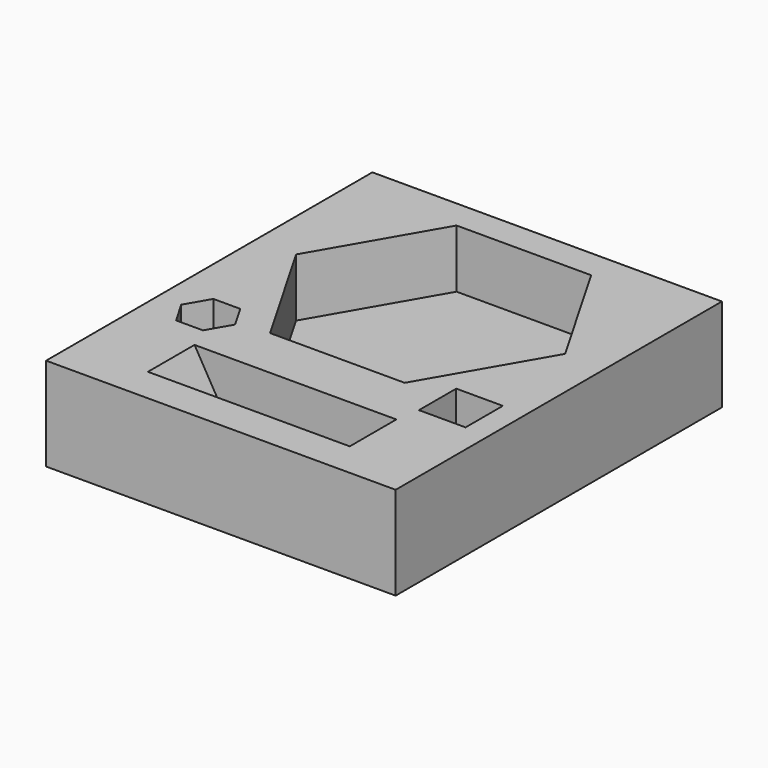
from build123d import *

# Parameters (mm, degrees)
F0_W          = 38.1
F0_H          = 44.45
F1_DEPTH      = 10.16
F3_DEPTH      = 6.35
F6_DEPTH      = 3.175
F6_DEPTH_BACK = 3.175
F8_DEPTH      = 7.62
F9_W          = 5.08
F9_H          = 5.08
F10_DEPTH     = 7.62


with BuildPart() as f1:
    # F0 (on Top) → F1 (new body)
    with BuildSketch(Plane.XY):
        Rectangle(F0_W, F0_H)
    extrude(amount=F1_DEPTH)

    # F2 (on face) → F3 (cut)
    with BuildSketch(Plane.XY.offset(10.16)):
        Polygon((14.6646968374, 6.35), (7.3323484187, 19.05), (-7.3323484187, 19.05), (-14.6646968374, 6.35), (-7.3323484187, -6.35), (7.3323484187, -6.35), align=None)
    extrude(amount=-F3_DEPTH, mode=Mode.SUBTRACT)

    # F5 (on offset) → F6 (cut, two sides)
    with BuildSketch(Plane.XZ.offset(15.24)) as f6_sk:
        Polygon((7.3645809335, 3.8287173206), (14.6646495373, 16.547299463), (7.3000686039, 29.2286353945), (-7.3645809335, 29.1913891837), (-14.6646495373, 16.4728070413), (-7.3000686039, 3.7914711098), align=None)
    extrude(amount=-F6_DEPTH, mode=Mode.SUBTRACT)
    extrude(f6_sk.sketch, amount=F6_DEPTH_BACK, mode=Mode.SUBTRACT)

    # F7 (on face) → F8 (cut)
    with BuildSketch(Plane.XY.offset(10.16)):
        Polygon((-10.644121265, -6.985), (-12.1105909488, -4.445), (-15.0435303163, -4.445), (-16.51, -6.985), (-15.0435303163, -9.525), (-12.1105909488, -9.525), align=None)
    extrude(amount=-F8_DEPTH, mode=Mode.SUBTRACT)

    # F9 (on face) → F10 (cut)
    with BuildSketch(Plane.XY.offset(10.16)):
        with Locations((13.97, -6.985)):
            Rectangle(F9_W, F9_H)
    extrude(amount=-F10_DEPTH, mode=Mode.SUBTRACT)


solid = f1.part
